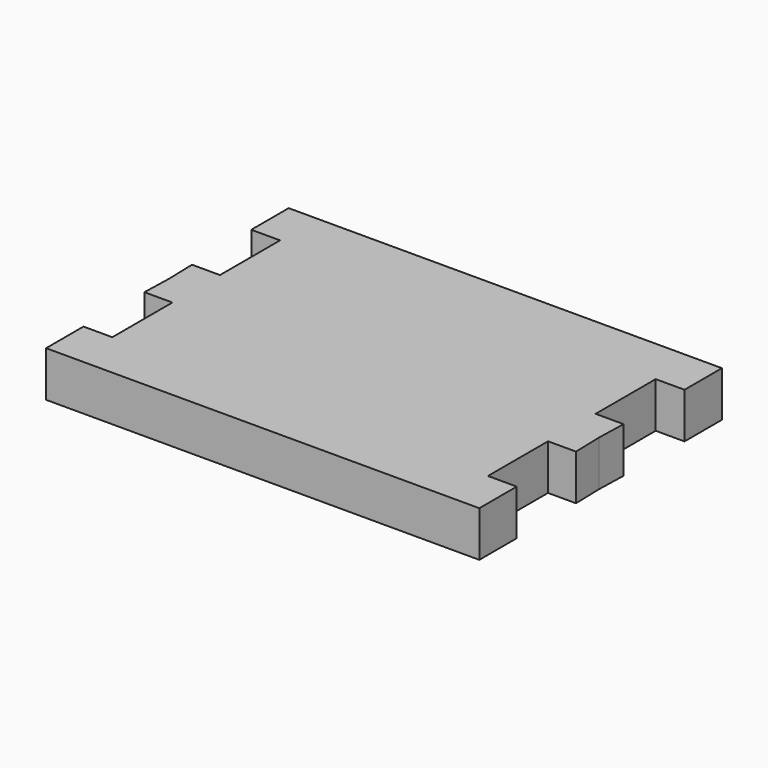
from build123d import *

# Parameters (mm, degrees)
F1_DEPTH = 3


with BuildPart() as f1:
    # F0 (on Top) → F1 (new body)
    with BuildSketch(Plane.XY):
        Polygon((14.285714, 6.915138), (14.285714, 10), (-14.285714, 10), (-14.285714, 6.915138), (-12.386098, 6.915138), (-12.386098, 1.961009), (-14.230822, 1.961009), (-14.176143, 0), (-14.230822, -1.961009), (-12.386098, -1.961009), (-12.386098, -6.915138), (-14.285714, -6.915138), (-14.285714, -10), (14.285714, -10), (14.285714, -6.915138), (12.386098, -6.915138), (12.386098, -1.961009), (14.230822, -1.961009), (14.176143, 0), (14.230822, 1.961009), (12.386098, 1.961009), (12.386098, 6.915138), align=None)
    extrude(amount=F1_DEPTH)


solid = f1.part
